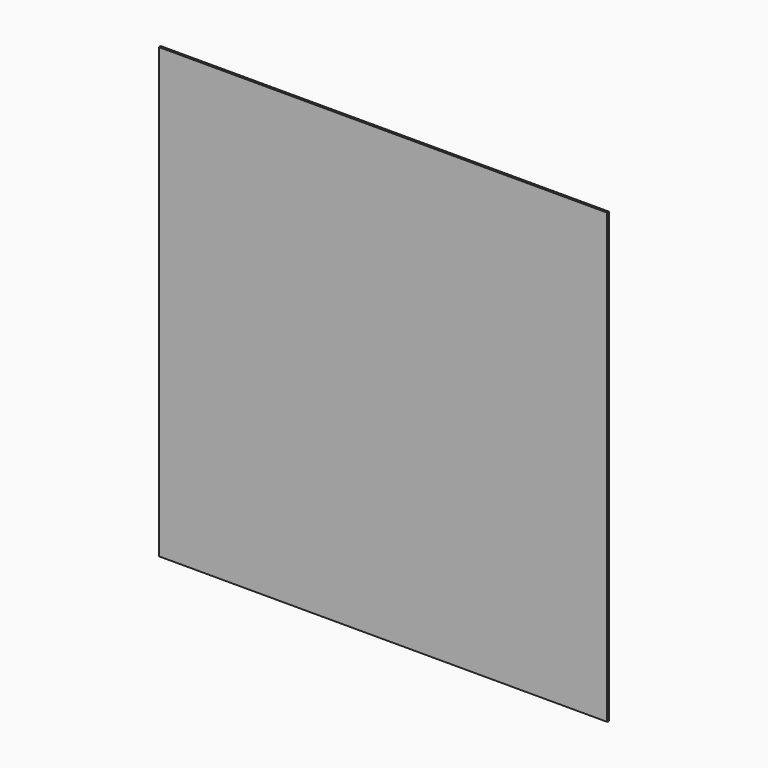
from build123d import *

# Parameters (mm, degrees)
PAD_DEPTH = 10


with BuildPart() as part:
    # Sketch → Pad (new body)
    with BuildSketch(Plane.XZ):
        Polygon((-999.904299, 500), (-1000.09571, -1500), (999.904299, -1500), (999.904299, 500), align=None)
    extrude(amount=PAD_DEPTH)


solid = part.part
